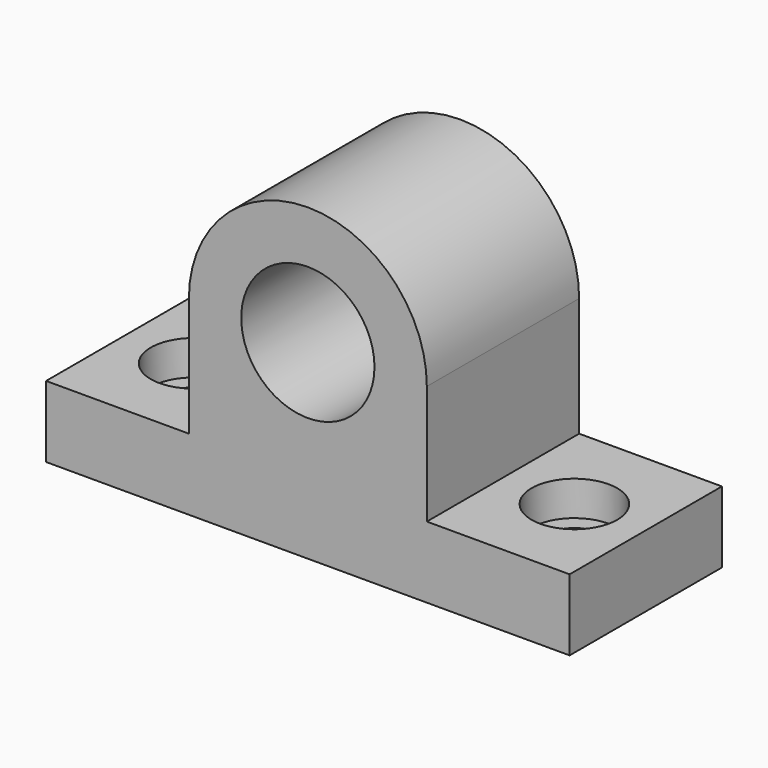
from build123d import *

# Parameters (mm, degrees)
F0_R     = 14
F1_DEPTH = 40
F2_R     = 5.5
F3_R     = 5.5
F4_DEPTH = 15
F2_R_2   = 9
F3_R_2   = 9
F5_DEPTH = 7.3


with BuildPart() as f1:
    # F0 (on Front) → F1 (new body)
    with BuildSketch(Plane.XZ):
        with BuildLine():
            Line((-55, -17.5), (-55, -32.5))
            Line((-55, -32.5), (55, -32.5))
            Line((55, -32.5), (55, -17.5))
            Line((55, -17.5), (25, -17.5))
            Line((25, -17.5), (25, 7.5))
            ThreePointArc((25, 7.5), (0, 32.5), (-25, 7.5))
            Line((-25, 7.5), (-25, -17.5))
            Line((-25, -17.5), (-55, -17.5))
        make_face()
        with Locations((0, 7.5)):
            Circle(F0_R, mode=Mode.SUBTRACT)
    extrude(amount=F1_DEPTH)

    # F2 (on face) + F3 (on face) → F4 (cut)
    with BuildSketch(Plane.XY.offset(-17.5)):
        with Locations((-40, -20)):
            Circle(F2_R)
    with BuildSketch(Plane.XY.offset(-17.5)):
        with Locations((40, -20)):
            Circle(F3_R)
    extrude(amount=-F4_DEPTH, mode=Mode.SUBTRACT)

    # F2 (on face) + F3 (on face) → F5 (cut)
    with BuildSketch(Plane.XY.offset(-17.5)):
        with Locations((-40, -20)):
            Circle(F2_R_2)
        with Locations((-40, -20)):
            Circle(F2_R, mode=Mode.SUBTRACT)
    with BuildSketch(Plane.XY.offset(-17.5)):
        with Locations((40, -20)):
            Circle(F3_R_2)
        with Locations((40, -20)):
            Circle(F3_R, mode=Mode.SUBTRACT)
    extrude(amount=-F5_DEPTH, mode=Mode.SUBTRACT)


solid = f1.part
